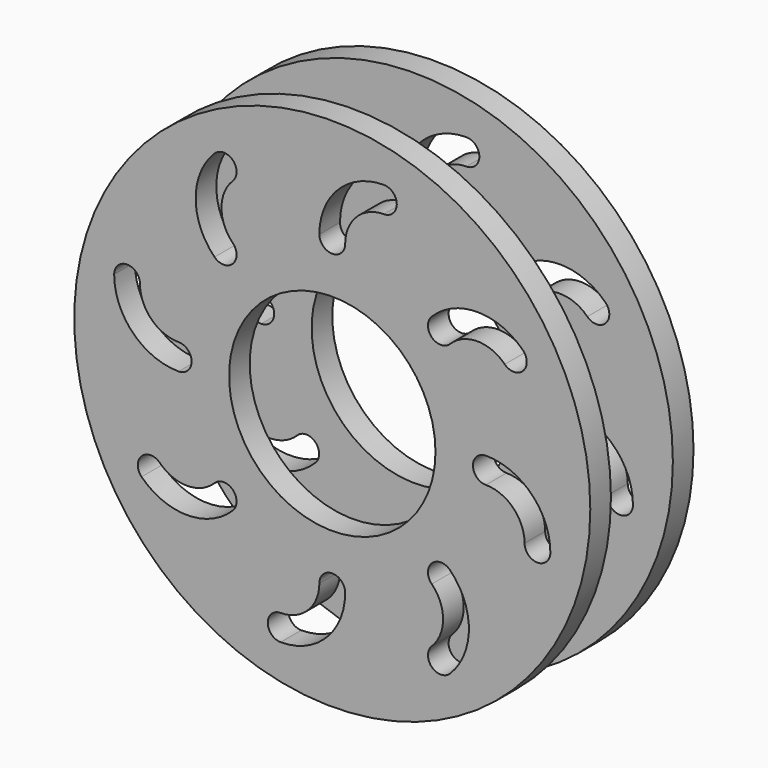
from build123d import *

# Parameters (mm, degrees)
F0_R     = 63.5
F0_R_2   = 25.4
F1_DEPTH = 6.35
F3_DEPTH = 25.4
F5_R     = 63.5
F5_R_2   = 25.4
F6_DEPTH = 6.35


with BuildPart() as f1:
    # F0 (on Front) → F1 (new body)
    with BuildSketch(Plane.XZ):
        Circle(F0_R)
        Circle(F0_R_2, mode=Mode.SUBTRACT)
    extrude(amount=F1_DEPTH)

    # F2 (on face) → F3 (cut)
    with BuildSketch(Plane.XZ.offset(6.35)):
        with BuildLine():
            ThreePointArc((12.7, 47.368167), (15.875, 50.543167), (12.7, 53.718167))
            ThreePointArc((12.7, 53.718167), (1.47468, 49.068487), (-3.175, 37.843167))
            ThreePointArc((-3.175, 37.843167), (0, 34.668167), (3.175, 37.843167))
            ThreePointArc((3.175, 37.843167), (5.964808, 44.578359), (12.7, 47.368167))
        make_face()
        with BuildLine():
            ThreePointArc((-28.971012, 24.527852), (-24.480884, 24.527852), (-24.480884, 29.01798))
            ThreePointArc((-24.480884, 29.01798), (-27.270692, 35.753173), (-24.480884, 42.488365))
            ThreePointArc((-24.480884, 42.488365), (-24.480884, 46.978493), (-28.971012, 46.978493))
            ThreePointArc((-28.971012, 46.978493), (-33.620692, 35.753173), (-28.971012, 24.527852))
        make_face()
        with BuildLine():
            ThreePointArc((-37.796198, -3.128032), (-34.621198, 0.046968), (-37.796198, 3.221968))
            ThreePointArc((-37.796198, 3.221968), (-44.531391, 6.011776), (-47.321198, 12.746968))
            ThreePointArc((-47.321198, 12.746968), (-50.496198, 15.921968), (-53.671198, 12.746968))
            ThreePointArc((-53.671198, 12.746968), (-49.021519, 1.521648), (-37.796198, -3.128032))
        make_face()
        with BuildLine():
            ThreePointArc((-24.480884, -28.924044), (-24.480884, -24.433916), (-28.971012, -24.433916))
            ThreePointArc((-28.971012, -24.433916), (-35.706204, -27.223724), (-42.441396, -24.433916))
            ThreePointArc((-42.441396, -24.433916), (-46.931525, -24.433916), (-46.931525, -28.924044))
            ThreePointArc((-46.931525, -28.924044), (-35.706204, -33.573724), (-24.480884, -28.924044))
        make_face()
        with BuildLine():
            ThreePointArc((3.175, -37.74923), (0, -34.57423), (-3.175, -37.74923))
            ThreePointArc((-3.175, -37.74923), (-5.964808, -44.484422), (-12.7, -47.27423))
            ThreePointArc((-12.7, -47.27423), (-15.875, -50.44923), (-12.7, -53.62423))
            ThreePointArc((-12.7, -53.62423), (-1.47468, -48.97455), (3.175, -37.74923))
        make_face()
        with BuildLine():
            ThreePointArc((28.971012, -24.433916), (24.480884, -24.433916), (24.480884, -28.924044))
            ThreePointArc((24.480884, -28.924044), (27.270692, -35.659236), (24.480884, -42.394428))
            ThreePointArc((24.480884, -42.394428), (24.480884, -46.884556), (28.971012, -46.884556))
            ThreePointArc((28.971012, -46.884556), (33.620692, -35.659236), (28.971012, -24.433916))
        make_face()
        with BuildLine():
            ThreePointArc((37.796198, 3.221968), (34.621198, 0.046968), (37.796198, -3.128032))
            ThreePointArc((37.796198, -3.128032), (44.531391, -5.91784), (47.321198, -12.653032))
            ThreePointArc((47.321198, -12.653032), (50.496198, -15.828032), (53.671198, -12.653032))
            ThreePointArc((53.671198, -12.653032), (49.021519, -1.427712), (37.796198, 3.221968))
        make_face()
        with BuildLine():
            ThreePointArc((24.480884, 29.01798), (24.480884, 24.527852), (28.971012, 24.527852))
            ThreePointArc((28.971012, 24.527852), (35.706204, 27.31766), (42.441396, 24.527852))
            ThreePointArc((42.441396, 24.527852), (46.931525, 24.527852), (46.931525, 29.01798))
            ThreePointArc((46.931525, 29.01798), (35.706204, 33.66766), (24.480884, 29.01798))
        make_face()
    extrude(amount=-F3_DEPTH, mode=Mode.SUBTRACT)


with BuildPart() as f6:
    # F5 (on offset) → F6 (new body)
    with BuildSketch(Plane.XZ.offset(25.4)):
        Circle(F5_R)
        with BuildLine():
            ThreePointArc((3.175, -37.74923), (-1.47468, -48.97455), (-12.7, -53.62423))
            ThreePointArc((-12.7, -53.62423), (-15.875, -50.44923), (-12.7, -47.27423))
            ThreePointArc((-12.7, -47.27423), (-5.964808, -44.484422), (-3.175, -37.74923))
            ThreePointArc((-3.175, -37.74923), (0, -34.57423), (3.175, -37.74923))
        make_face(mode=Mode.SUBTRACT)
        with BuildLine():
            ThreePointArc((-24.480884, -28.924044), (-35.706204, -33.573724), (-46.931525, -28.924044))
            ThreePointArc((-46.931525, -28.924044), (-46.931525, -24.433916), (-42.441396, -24.433916))
            ThreePointArc((-42.441396, -24.433916), (-35.706204, -27.223724), (-28.971012, -24.433916))
            ThreePointArc((-28.971012, -24.433916), (-24.480884, -24.433916), (-24.480884, -28.924044))
        make_face(mode=Mode.SUBTRACT)
        with BuildLine():
            ThreePointArc((28.971012, -46.884556), (24.480884, -46.884556), (24.480884, -42.394428))
            ThreePointArc((24.480884, -42.394428), (27.270692, -35.659236), (24.480884, -28.924044))
            ThreePointArc((24.480884, -28.924044), (24.480884, -24.433916), (28.971012, -24.433916))
            ThreePointArc((28.971012, -24.433916), (33.620692, -35.659236), (28.971012, -46.884556))
        make_face(mode=Mode.SUBTRACT)
        with BuildLine():
            ThreePointArc((37.796198, 3.221968), (49.021519, -1.427712), (53.671198, -12.653032))
            ThreePointArc((53.671198, -12.653032), (50.496198, -15.828032), (47.321198, -12.653032))
            ThreePointArc((47.321198, -12.653032), (44.531391, -5.91784), (37.796198, -3.128032))
            ThreePointArc((37.796198, -3.128032), (34.621198, 0.046968), (37.796198, 3.221968))
        make_face(mode=Mode.SUBTRACT)
        with BuildLine():
            ThreePointArc((-37.796198, -3.128032), (-49.021519, 1.521648), (-53.671198, 12.746968))
            ThreePointArc((-53.671198, 12.746968), (-50.496198, 15.921968), (-47.321198, 12.746968))
            ThreePointArc((-47.321198, 12.746968), (-44.531391, 6.011776), (-37.796198, 3.221968))
            ThreePointArc((-37.796198, 3.221968), (-34.621198, 0.046968), (-37.796198, -3.128032))
        make_face(mode=Mode.SUBTRACT)
        with BuildLine():
            ThreePointArc((-24.480884, 42.488365), (-27.270692, 35.753173), (-24.480884, 29.01798))
            ThreePointArc((-24.480884, 29.01798), (-24.480884, 24.527852), (-28.971012, 24.527852))
            ThreePointArc((-28.971012, 24.527852), (-33.620692, 35.753173), (-28.971012, 46.978493))
            ThreePointArc((-28.971012, 46.978493), (-24.480884, 46.978493), (-24.480884, 42.488365))
        make_face(mode=Mode.SUBTRACT)
        Circle(F5_R_2, mode=Mode.SUBTRACT)
        with BuildLine():
            ThreePointArc((24.480884, 29.01798), (35.706204, 33.66766), (46.931525, 29.01798))
            ThreePointArc((46.931525, 29.01798), (46.931525, 24.527852), (42.441396, 24.527852))
            ThreePointArc((42.441396, 24.527852), (35.706204, 27.31766), (28.971012, 24.527852))
            ThreePointArc((28.971012, 24.527852), (24.480884, 24.527852), (24.480884, 29.01798))
        make_face(mode=Mode.SUBTRACT)
        with BuildLine():
            ThreePointArc((12.7, 47.368167), (5.964808, 44.578359), (3.175, 37.843167))
            ThreePointArc((3.175, 37.843167), (0, 34.668167), (-3.175, 37.843167))
            ThreePointArc((-3.175, 37.843167), (1.47468, 49.068487), (12.7, 53.718167))
            ThreePointArc((12.7, 53.718167), (15.875, 50.543167), (12.7, 47.368167))
        make_face(mode=Mode.SUBTRACT)
    extrude(amount=F6_DEPTH)


solid = Compound([f1.part, f6.part])
